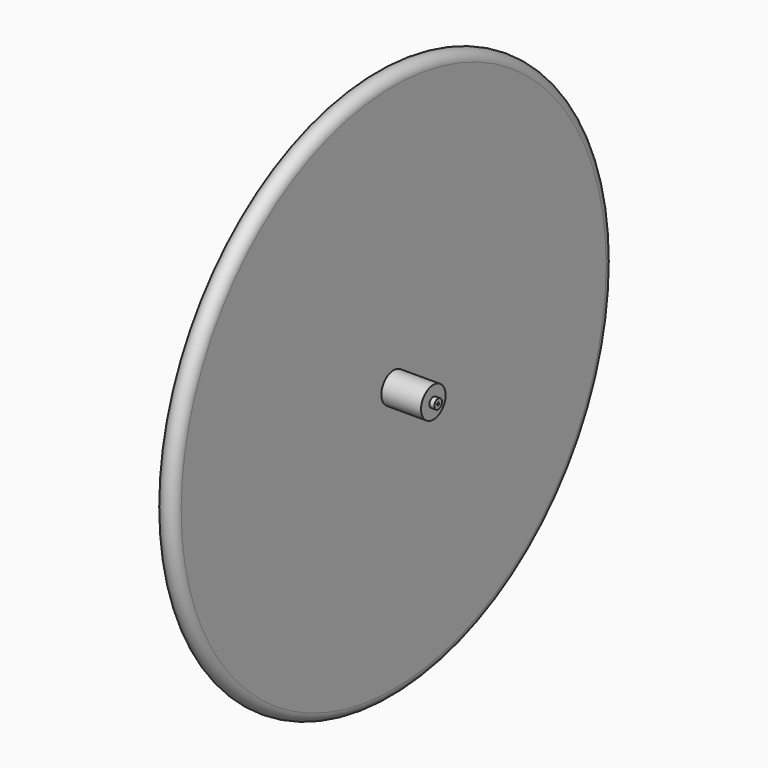
from build123d import *


with BuildPart() as f1:
    # F0 (on Top) → F1 (revolve)
    with BuildSketch(Plane.XY):
        with BuildLine():
            Line((-12.7, 20.223617), (-65, 20.223617))
            Line((-65, 20.223617), (-65, 6.35))
            Line((-65, 6.35), (-71.35, 6.35))
            Line((-71.35, 6.35), (-71.35, 1.842528))
            Line((-71.35, 1.842528), (71.35, 1.56845))
            Line((71.35, 1.56845), (71.35, 6.35))
            Line((71.35, 6.35), (65, 6.35))
            Line((65, 6.35), (65, 20.223617))
            Line((65, 20.223617), (12.7, 20.223617))
            Line((12.7, 20.223617), (12.7, 350))
            ThreePointArc((12.7, 350), (0, 362.7), (-12.7, 350))
            Line((-12.7, 350), (-12.7, 20.223617))
        make_face()
    revolve(axis=Axis((-0.351042, 0, 0), (1, 0, 0)))


solid = f1.part
